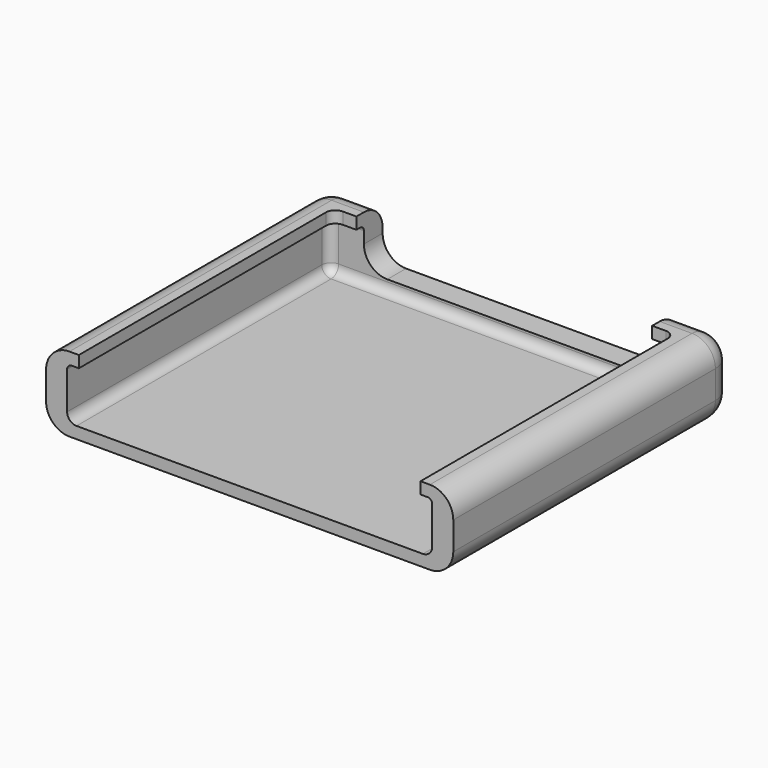
from build123d import *

# Parameters (mm, degrees)
F0_W     = 87
F0_H     = 16
F1_DEPTH = 75
F2_R     = 5
F3_W     = 78
F3_H     = 11
F4_DEPTH = 70
F5_W     = 73
F5_H     = 68
F6_DEPTH = 2.5
F7_R     = 2
F8_W     = 63.19318
F8_H     = 17.0015
F9_DEPTH = 25
F10_R    = 1


with BuildPart() as f1:
    # F0 (on Front) → F1 (new body)
    with BuildSketch(Plane.XZ):
        Rectangle(F0_W, F0_H)
    extrude(amount=F1_DEPTH)

    # F2
    f2_edges = [f1.edges().sort_by_distance(p)[0] for p in [
        (-43.5, -37.5, 8),
        (43.5, -37.5, 8),
        (43.5, -37.5, -8),
        (-43.5, -37.5, -8),
        (0, 0, 8),
        (0, 0, -8),
        (-43.5, 0, 0),
        (43.5, 0, 0),
    ]]
    fillet(f2_edges, radius=F2_R)

    # F3 (on face) → F4 (cut)
    with BuildSketch(Plane.XZ.offset(75)):
        Rectangle(F3_W, F3_H)
    extrude(amount=-F4_DEPTH, mode=Mode.SUBTRACT)

    # F5 (on face) → F6 (cut, through all)
    with BuildSketch(Plane.XY.offset(8)):
        with Locations((0, -41)):
            Rectangle(F5_W, F5_H)
    extrude(amount=-F6_DEPTH, mode=Mode.SUBTRACT)

    # F7
    f7_edges = [f1.edges().sort_by_distance(p)[0] for p in [
        (36.5, -7, 6.75),
        (-36.5, -7, 6.75),
        (39, -40, -5.5),
        (0, -5, -5.5),
        (-39, -40, -5.5),
        (-39, -5, 0),
        (39, -5, 0),
    ]]
    fillet(f7_edges, radius=F7_R)

    # F8 (on face) → F9 (cut)
    with BuildSketch(Plane(origin=(0, 0, 0), x_dir=(-1, 0, 0), z_dir=(0, 1, 0))):
        with BuildLine():
            ThreePointArc((-31.59659, 2), (-30.132124, -1.535534), (-26.59659, -3))
            Line((-26.59659, -3), (26.59659, -3))
            ThreePointArc((26.59659, -3), (30.132124, -1.535534), (31.59659, 2))
            Line((31.59659, 2), (31.59659, 3))
            Line((31.59659, 3), (-31.59659, 3))
            Line((-31.59659, 3), (-31.59659, 2))
        make_face()
        with Locations((0, 11.50075)):
            Rectangle(F8_W, F8_H)
    extrude(amount=-F9_DEPTH, mode=Mode.SUBTRACT)

    # F10
    f10_edges = [f1.edges().sort_by_distance(p)[0] for p in [
        (39, -41, 5.5),
        (-39, -41, 5.5),
    ]]
    fillet(f10_edges, radius=F10_R)


solid = f1.part
